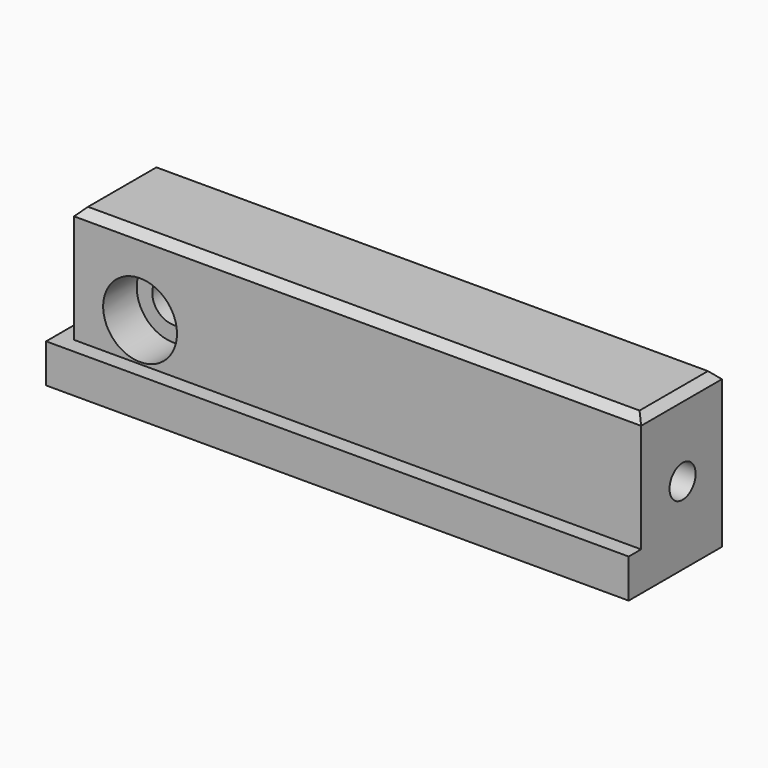
from build123d import *

# Parameters (mm, degrees)
F0_W           = 73
F0_H           = 20
F1_DEPTH       = 13
F2_W           = 75
F2_H           = 5
F3_DEPTH       = 2
F4_W           = 13
F4_H           = 5
F5_DEPTH       = 2
F7_D           = 5.5
F7_CBORE_D     = 9.5
F7_CBORE_DEPTH = 5.4
F9_D           = 4.2
F9_DEPTH       = 8
F9_TIP         = 1.2618073
F10_SIZE       = 1


with BuildPart() as f1:
    # F0 (on Front) → F1 (new body)
    with BuildSketch(Plane.XZ):
        with Locations((36.5, 10)):
            Rectangle(F0_W, F0_H)
    extrude(amount=F1_DEPTH)

    # F2 (on face) → F3 (join)
    with BuildSketch(Plane.XZ.offset(13)):
        with Locations((35.5, 2.5)):
            Rectangle(F2_W, F2_H)
    extrude(amount=F3_DEPTH)

    # F4 (on face) → F5 (join)
    with BuildSketch(Plane(origin=(0, 0, 0), x_dir=(0, -1, 0), z_dir=(-1, 0, 0))):
        with Locations((6.5, 2.5)):
            Rectangle(F4_W, F4_H)
    extrude(amount=F5_DEPTH)

    # F7 (through all)
    with Locations(Plane.XZ.offset(13)):
        with Locations((8.5, 10)):
            CounterBoreHole(F7_D / 2, F7_CBORE_D / 2, F7_CBORE_DEPTH)

    # F9
    with Locations(Plane.YZ.offset(73)):
        with Locations((-6.3317259774, 10)):
            Hole(F9_D / 2, depth=F9_DEPTH)
            with Locations((0, 0, -(F9_DEPTH + F9_TIP / 2))):  # 118° drill point
                Cone(0, F9_D / 2, F9_TIP, mode=Mode.SUBTRACT)

    # F10
    f10_edges = [f1.edges().sort_by_distance(p)[0] for p in [
        (36.5, 0, 20),
        (36.5, -13, 20),
        (0, -6.5, 20),
        (73, -6.5, 20),
    ]]
    chamfer(f10_edges, length=F10_SIZE)


solid = f1.part
